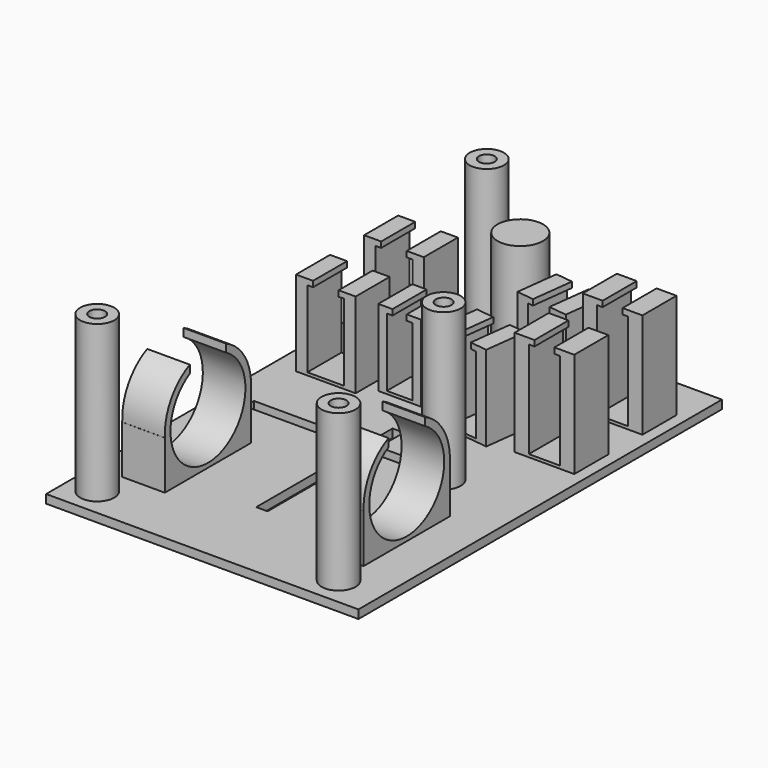
from build123d import *

# Parameters (mm, degrees)
BOX003_W                = 52
BOX003_H                = 9
BOX003_DEPTH            = 24
BOX003_PLACEMENT_ANGLE  = 90
BOX008_W                = 52
BOX008_H                = 5
BOX008_DEPTH            = 24
BOX008_PLACEMENT_ANGLE  = 90
BOX007_W                = 15
BOX007_H                = 15
BOX007_DEPTH            = 30
BOX002_W                = 84
BOX002_H                = 13
BOX002_DEPTH            = 27
BOX002_PLACEMENT_ANGLE  = 90
BOX006_W                = 9
BOX006_H                = 60
BOX006_DEPTH            = 10
BOX004_W                = 21
BOX004_H                = 15
BOX004_DEPTH            = 33
BOX005_W                = 21
BOX005_H                = 15
BOX005_DEPTH            = 33
BOX034_W                = 10.5
BOX034_H                = 81
BOX034_DEPTH            = 27
BOX034_PLACEMENT_ANGLE  = -7
BOX035_W                = 6.5
BOX035_H                = 81
BOX035_DEPTH            = 34
BOX035_PLACEMENT_ANGLE  = -7
BOX037_W                = 19
BOX037_H                = 15
BOX037_DEPTH            = 33
BOX037_PLACEMENT_ANGLE  = -7
BOX036_W                = 19
BOX036_H                = 15
BOX036_DEPTH            = 33
BOX036_PLACEMENT_ANGLE  = -7
BOX010_W                = 11
BOX010_H                = 87
BOX010_DEPTH            = 34
BOX013_W                = 7
BOX013_H                = 87
BOX013_DEPTH            = 34
BOX011_W                = 21
BOX011_H                = 15
BOX011_DEPTH            = 40
BOX012_W                = 21
BOX012_H                = 15
BOX012_DEPTH            = 40
BOX020_W                = 4
BOX020_H                = 60
BOX020_DEPTH            = 10
BOX019_W                = 55
BOX019_H                = 4
BOX019_DEPTH            = 10
CYLINDER007_R           = 2.75
CYLINDER007_DEPTH       = 70
CYLINDER010_R           = 2.75
CYLINDER010_DEPTH       = 70
CYLINDER013_R           = 2.75
CYLINDER013_DEPTH       = 70
CYLINDER006_R           = 2.75
CYLINDER006_DEPTH       = 70
CYLINDER_R              = 6
CYLINDER_DEPTH          = 55
CYLINDER008_R           = 6
CYLINDER008_DEPTH       = 55
CYLINDER009_R           = 6
CYLINDER009_DEPTH       = 55
CYLINDER012_R           = 6
CYLINDER012_DEPTH       = 55
BOX_W                   = 110
BOX_H                   = 160
BOX_DEPTH               = 3
CYLINDER005_R           = 19
CYLINDER005_DEPTH       = 15
CYLINDER005_PITCH_ANGLE = 90
BOX033_W                = 15
BOX033_H                = 38
BOX033_DEPTH            = 19
BOX001_W                = 108
BOX001_H                = 16
BOX001_DEPTH            = 10
CYLINDER003_R           = 16.5
CYLINDER003_DEPTH       = 108
CYLINDER003_PITCH_ANGLE = 90
CYLINDER004_R           = 19
CYLINDER004_DEPTH       = 15
CYLINDER004_PITCH_ANGLE = 90
BOX032_W                = 15
BOX032_H                = 38
BOX032_DEPTH            = 19
CYLINDER011_R           = 8
CYLINDER011_DEPTH       = 42


with BuildPart() as gps:
    # Box003 → Box003 (new body)
    with BuildSketch(Plane.XY):
        with Locations((26, 4.5)):
            Rectangle(BOX003_W, BOX003_H)
    extrude(amount=BOX003_DEPTH)


with BuildPart() as gps_1:
    # Box003 placement: moved
    add(gps.part.moved(Location((45, 80, 4))).rotate(Axis((45, 80, 4), (0, 0, 1)), BOX003_PLACEMENT_ANGLE))


with BuildPart() as fusion002:
    # Box008 → Box008 (new body)
    with BuildSketch(Plane.XY):
        with Locations((26, 2.5)):
            Rectangle(BOX008_W, BOX008_H)
    extrude(amount=BOX008_DEPTH)


with BuildPart() as fusion002_1:
    # Box008 placement: moved
    add(fusion002.part.moved(Location((43, 80, 10))).rotate(Axis((43, 80, 10), (0, 0, 1)), BOX008_PLACEMENT_ANGLE))

    # Fusion002: union GPS
    add(gps_1.part)


with BuildPart() as gps_halterung:
    # Box007 → Box007 (new body)
    with BuildSketch(Plane(origin=(33, 105, 0), x_dir=(1, 0, 0), z_dir=(0, 0, 1))):
        with Locations((7.5, 7.5)):
            Rectangle(BOX007_W, BOX007_H)
    extrude(amount=BOX007_DEPTH)

    # Cut004: cut Fusion002
    add(fusion002_1.part, mode=Mode.SUBTRACT)


with BuildPart() as obj1:
    # Box002 → Box002 (new body)
    with BuildSketch(Plane.XY):
        with Locations((42, 6.5)):
            Rectangle(BOX002_W, BOX002_H)
    extrude(amount=BOX002_DEPTH)


with BuildPart() as obj1_1:
    # Box002 placement: moved
    add(obj1.part.moved(Location((25, 80, 4))).rotate(Axis((25, 80, 4), (0, 0, 1)), BOX002_PLACEMENT_ANGLE))


with BuildPart() as halterung:
    # Box006 → Box006 (new body)
    with BuildSketch(Plane(origin=(14, 95, 30), x_dir=(1, 0, 0), z_dir=(0, 0, 1))):
        with Locations((4.5, 30)):
            Rectangle(BOX006_W, BOX006_H)
    extrude(amount=BOX006_DEPTH)


with BuildPart() as obj2:
    # Box004 → Box004 (new body)
    with BuildSketch(Plane(origin=(8, 100, 0), x_dir=(1, 0, 0), z_dir=(0, 0, 1))):
        with Locations((10.5, 7.5)):
            Rectangle(BOX004_W, BOX004_H)
    extrude(amount=BOX004_DEPTH)


with BuildPart() as obj1_halterung:
    # Box005 → Box005 (new body)
    with BuildSketch(Plane(origin=(8, 130, 0), x_dir=(1, 0, 0), z_dir=(0, 0, 1))):
        with Locations((10.5, 7.5)):
            Rectangle(BOX005_W, BOX005_H)
    extrude(amount=BOX005_DEPTH)

    # Fusion001: union obj2
    add(obj2.part)

    # Cut002: cut Halterung
    add(halterung.part, mode=Mode.SUBTRACT)

    # Cut003: cut obj1
    add(obj1_1.part, mode=Mode.SUBTRACT)


with BuildPart() as obj3:
    # Box034 → Box034 (new body)
    with BuildSketch(Plane.XY):
        with Locations((5.25, 40.5)):
            Rectangle(BOX034_W, BOX034_H)
    extrude(amount=BOX034_DEPTH)


with BuildPart() as obj3_1:
    # Box034 placement: moved
    add(obj3.part.moved(Location((60, 80, 4))).rotate(Axis((60, 80, 4), (0, 0, 1)), BOX034_PLACEMENT_ANGLE))


with BuildPart() as fusion019:
    # Box035 → Box035 (new body)
    with BuildSketch(Plane.XY):
        with Locations((3.25, 40.5)):
            Rectangle(BOX035_W, BOX035_H)
    extrude(amount=BOX035_DEPTH)


with BuildPart() as fusion019_1:
    # Box035 placement: moved
    add(fusion019.part.moved(Location((62, 80, 10))).rotate(Axis((62, 80, 10), (0, 0, 1)), BOX035_PLACEMENT_ANGLE))

    # Fusion019: union obj3
    add(obj3_1.part)


with BuildPart() as obj4:
    # Box037 → Box037 (new body)
    with BuildSketch(Plane.XY):
        with Locations((9.5, 7.5)):
            Rectangle(BOX037_W, BOX037_H)
    extrude(amount=BOX037_DEPTH)


with BuildPart() as obj4_1:
    # Box037 placement: moved
    add(obj4.part.moved(Location((62, 130, 0))).rotate(Axis((62, 130, 0), (0, 0, 1)), BOX037_PLACEMENT_ANGLE))


with BuildPart() as obj3_halterung:
    # Box036 → Box036 (new body)
    with BuildSketch(Plane.XY):
        with Locations((9.5, 7.5)):
            Rectangle(BOX036_W, BOX036_H)
    extrude(amount=BOX036_DEPTH)


with BuildPart() as obj3_halterung_1:
    # Box036 placement: moved
    add(obj3_halterung.part.moved(Location((58, 100, 0))).rotate(Axis((58, 100, 0), (0, 0, 1)), BOX036_PLACEMENT_ANGLE))

    # Fusion018: union obj4
    add(obj4_1.part)

    # Cut024: cut Fusion019
    add(fusion019_1.part, mode=Mode.SUBTRACT)


with BuildPart() as alfa:
    # Box010 → Box010 (new body)
    with BuildSketch(Plane(origin=(90, 80, 4), x_dir=(1, 0, 0), z_dir=(0, 0, 1))):
        with Locations((5.5, 43.5)):
            Rectangle(BOX010_W, BOX010_H)
    extrude(amount=BOX010_DEPTH)


with BuildPart() as fusion004:
    # Box013 → Box013 (new body)
    with BuildSketch(Plane(origin=(92, 80, 10), x_dir=(1, 0, 0), z_dir=(0, 0, 1))):
        with Locations((3.5, 43.5)):
            Rectangle(BOX013_W, BOX013_H)
    extrude(amount=BOX013_DEPTH)

    # Fusion004: union Alfa
    add(alfa.part)


with BuildPart() as obj5:
    # Box011 → Box011 (new body)
    with BuildSketch(Plane(origin=(85, 130, 0), x_dir=(1, 0, 0), z_dir=(0, 0, 1))):
        with Locations((10.5, 7.5)):
            Rectangle(BOX011_W, BOX011_H)
    extrude(amount=BOX011_DEPTH)


with BuildPart() as alfa_halterung:
    # Box012 → Box012 (new body)
    with BuildSketch(Plane(origin=(85, 100, 0), x_dir=(1, 0, 0), z_dir=(0, 0, 1))):
        with Locations((10.5, 7.5)):
            Rectangle(BOX012_W, BOX012_H)
    extrude(amount=BOX012_DEPTH)

    # Fusion003: union obj5
    add(obj5.part)

    # Cut005: cut Fusion004
    add(fusion004.part, mode=Mode.SUBTRACT)


with BuildPart() as obj6:
    # Box020 → Box020 (new body)
    with BuildSketch(Plane(origin=(50, 30, -3), x_dir=(1, 0, 0), z_dir=(0, 0, 1))):
        with Locations((2, 30)):
            Rectangle(BOX020_W, BOX020_H)
    extrude(amount=BOX020_DEPTH)


with BuildPart() as fusion013:
    # Box019 → Box019 (new body)
    with BuildSketch(Plane(origin=(10, 75, -3), x_dir=(1, 0, 0), z_dir=(0, 0, 1))):
        with Locations((27.5, 2)):
            Rectangle(BOX019_W, BOX019_H)
    extrude(amount=BOX019_DEPTH)

    # Fusion013: union obj6
    add(obj6.part)


with BuildPart() as cylinder007:
    # Cylinder007 → Cylinder007 (new body)
    with BuildSketch(Plane(origin=(36, 149, -3), x_dir=(1, 0, 0), z_dir=(0, 0, 1))):
        Circle(CYLINDER007_R)
    extrude(amount=CYLINDER007_DEPTH)


with BuildPart() as cylinder010:
    # Cylinder010 → Cylinder010 (new body)
    with BuildSketch(Plane(origin=(10, 10, -3), x_dir=(1, 0, 0), z_dir=(0, 0, 1))):
        Circle(CYLINDER010_R)
    extrude(amount=CYLINDER010_DEPTH)


with BuildPart() as cylinder013:
    # Cylinder013 → Cylinder013 (new body)
    with BuildSketch(Plane(origin=(80, 75, -3), x_dir=(1, 0, 0), z_dir=(0, 0, 1))):
        Circle(CYLINDER013_R)
    extrude(amount=CYLINDER013_DEPTH)


with BuildPart() as fusion010:
    # Cylinder006 → Cylinder006 (new body)
    with BuildSketch(Plane(origin=(95, 10, -3), x_dir=(1, 0, 0), z_dir=(0, 0, 1))):
        Circle(CYLINDER006_R)
    extrude(amount=CYLINDER006_DEPTH)

    # Fusion010: union Cylinder007, Cylinder010, Cylinder013
    add(cylinder007.part)
    add(cylinder010.part)
    add(cylinder013.part)


with BuildPart() as cylinder:
    # Cylinder → Cylinder (new body)
    with BuildSketch(Plane(origin=(10, 10, 3), x_dir=(1, 0, 0), z_dir=(0, 0, 1))):
        Circle(CYLINDER_R)
    extrude(amount=CYLINDER_DEPTH)


with BuildPart() as cylinder008:
    # Cylinder008 → Cylinder008 (new body)
    with BuildSketch(Plane(origin=(36, 149, 3), x_dir=(1, 0, 0), z_dir=(0, 0, 1))):
        Circle(CYLINDER008_R)
    extrude(amount=CYLINDER008_DEPTH)


with BuildPart() as cylinder009:
    # Cylinder009 → Cylinder009 (new body)
    with BuildSketch(Plane(origin=(95, 10, 3), x_dir=(1, 0, 0), z_dir=(0, 0, 1))):
        Circle(CYLINDER009_R)
    extrude(amount=CYLINDER009_DEPTH)


with BuildPart() as cylinder012:
    # Cylinder012 → Cylinder012 (new body)
    with BuildSketch(Plane(origin=(80, 75, 3), x_dir=(1, 0, 0), z_dir=(0, 0, 1))):
        Circle(CYLINDER012_R)
    extrude(amount=CYLINDER012_DEPTH)


with BuildPart() as bodenplatte:
    # Box → Box (new body)
    with BuildSketch(Plane.XY):
        with Locations((55, 80)):
            Rectangle(BOX_W, BOX_H)
    extrude(amount=BOX_DEPTH)

    # Fusion009: union Cylinder, Cylinder008, Cylinder009, Cylinder012
    add(cylinder.part)
    add(cylinder008.part)
    add(cylinder009.part)
    add(cylinder012.part)

    # Cut011: cut Fusion010
    add(fusion010.part, mode=Mode.SUBTRACT)

    # Cut016: cut Fusion013
    add(fusion013.part, mode=Mode.SUBTRACT)


with BuildPart() as powercore002:
    # Cylinder005 → Cylinder005 (new body)
    with BuildSketch(Plane.XY):
        Circle(CYLINDER005_R)
    extrude(amount=CYLINDER005_DEPTH)


with BuildPart() as powercore002_1:
    # Cylinder005 pitch: moved
    add(powercore002.part.rotate(Axis((0, 0, 0), (0, 1, 0)), CYLINDER005_PITCH_ANGLE))


with BuildPart() as powercore002_2:
    # Cylinder005 placement: moved
    add(powercore002_1.part.moved(Location((80, 40, 21))))


with BuildPart() as cut023:
    # Box033 → Box033 (new body)
    with BuildSketch(Plane(origin=(80, 21, 1), x_dir=(1, 0, 0), z_dir=(0, 0, 1))):
        with Locations((7.5, 19)):
            Rectangle(BOX033_W, BOX033_H)
    extrude(amount=BOX033_DEPTH)

    # Cut023: cut PowerCore002
    add(powercore002_2.part, mode=Mode.SUBTRACT)


with BuildPart() as obj7:
    # Box001 → Box001 (new body)
    with BuildSketch(Plane(origin=(0, 32, 33), x_dir=(1, 0, 0), z_dir=(0, 0, 1))):
        with Locations((54, 8)):
            Rectangle(BOX001_W, BOX001_H)
    extrude(amount=BOX001_DEPTH)


with BuildPart() as powercore:
    # Cylinder003 → Cylinder003 (new body)
    with BuildSketch(Plane.XY):
        Circle(CYLINDER003_R)
    extrude(amount=CYLINDER003_DEPTH)


with BuildPart() as powercore_1:
    # Cylinder003 pitch: moved
    add(powercore.part.rotate(Axis((0, 0, 0), (0, 1, 0)), CYLINDER003_PITCH_ANGLE))


with BuildPart() as powercore_2:
    # Cylinder003 placement: moved
    add(powercore_1.part.moved(Location((0, 40, 21))))


with BuildPart() as powercore001:
    # Cylinder004 → Cylinder004 (new body)
    with BuildSketch(Plane.XY):
        Circle(CYLINDER004_R)
    extrude(amount=CYLINDER004_DEPTH)


with BuildPart() as powercore001_1:
    # Cylinder004 pitch: moved
    add(powercore001.part.rotate(Axis((0, 0, 0), (0, 1, 0)), CYLINDER004_PITCH_ANGLE))


with BuildPart() as powercore001_2:
    # Cylinder004 placement: moved
    add(powercore001_1.part.moved(Location((10, 40, 21))))


with BuildPart() as obj8:
    # Fusion base: copy of PowerCore001
    add(powercore001_2.part)

    # Fusion: union PowerCore002
    add(powercore002_2.part)

    # Cut: cut PowerCore
    add(powercore_2.part, mode=Mode.SUBTRACT)

    # Cut001: cut obj7
    add(obj7.part, mode=Mode.SUBTRACT)


with BuildPart() as obj9:
    # Box032 → Box032 (new body)
    with BuildSketch(Plane(origin=(10, 21, 1), x_dir=(1, 0, 0), z_dir=(0, 0, 1))):
        with Locations((7.5, 19)):
            Rectangle(BOX032_W, BOX032_H)
    extrude(amount=BOX032_DEPTH)

    # Cut022: cut PowerCore001
    add(powercore001_2.part, mode=Mode.SUBTRACT)

    # Fusion017: union Cut023, obj8
    add(cut023.part)
    add(obj8.part)


with BuildPart() as fusion020:
    # Cylinder011 → Cylinder011 (new body)
    with BuildSketch(Plane(origin=(55, 140, 3), x_dir=(1, 0, 0), z_dir=(0, 0, 1))):
        Circle(CYLINDER011_R)
    extrude(amount=CYLINDER011_DEPTH)

    # Fusion020: union GPS Halterung, obj1_halterung, obj3_halterung, Alfa Halterung, Bodenplatte, obj9
    add(gps_halterung.part)
    add(obj1_halterung.part)
    add(obj3_halterung_1.part)
    add(alfa_halterung.part)
    add(bodenplatte.part)
    add(obj9.part)


solid = fusion020.part
